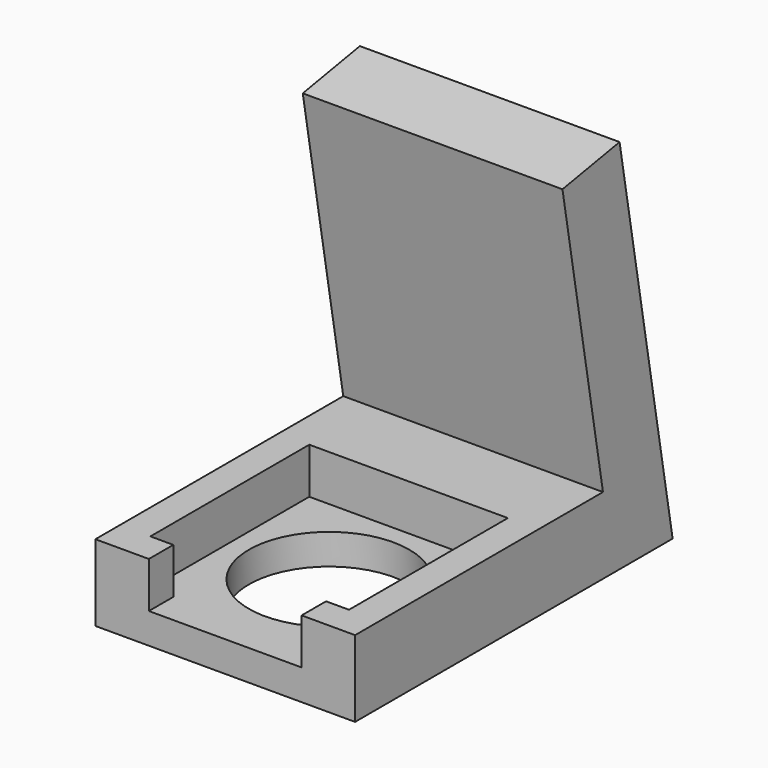
from build123d import *

# Parameters (mm, degrees)
F0_W     = 17
F0_H     = 17
F1_DEPTH = 5
F3_DEPTH = 3
F4_R     = 5.25
F5_DEPTH = 25
F7_DEPTH = 8.5


with BuildPart() as f1:
    # F0 (on Top) → F1 (new body)
    with BuildSketch(Plane.XY):
        Rectangle(F0_W, F0_H)
    extrude(amount=F1_DEPTH)

    # F2 (on face) → F3 (cut)
    with BuildSketch(Plane.XY.offset(5)):
        Polygon((6.5, 6.5), (-6.5, 6.5), (-6.5, -6.5), (-5, -6.5), (-5, -8.5), (5, -8.5), (5, -6.5), (6.5, -6.5), align=None)
    extrude(amount=-F3_DEPTH, mode=Mode.SUBTRACT)

    # F4 (on face) → F5 (cut)
    with BuildSketch(Plane(origin=(0, 0, 0), x_dir=(1, 0, 0), z_dir=(0, 0, -1))):
        Circle(F4_R)
    extrude(amount=-F5_DEPTH, mode=Mode.SUBTRACT)

    # F6 (on Right) → F7 (join, symmetric)
    with BuildSketch(Plane.YZ):
        Polygon((8.5, 5), (8.5, 0), (17.480478, 0), (13.139273, 24.620194), (8.46825, 23.796566), (11.782592, 5), align=None)
        Polygon((8.5, 5), (8.5, 0), (17.480478, 0), (13.139273, 24.620194), (8.46825, 23.796566), (11.782592, 5), align=None)
    extrude(amount=F7_DEPTH, both=True)


solid = f1.part
